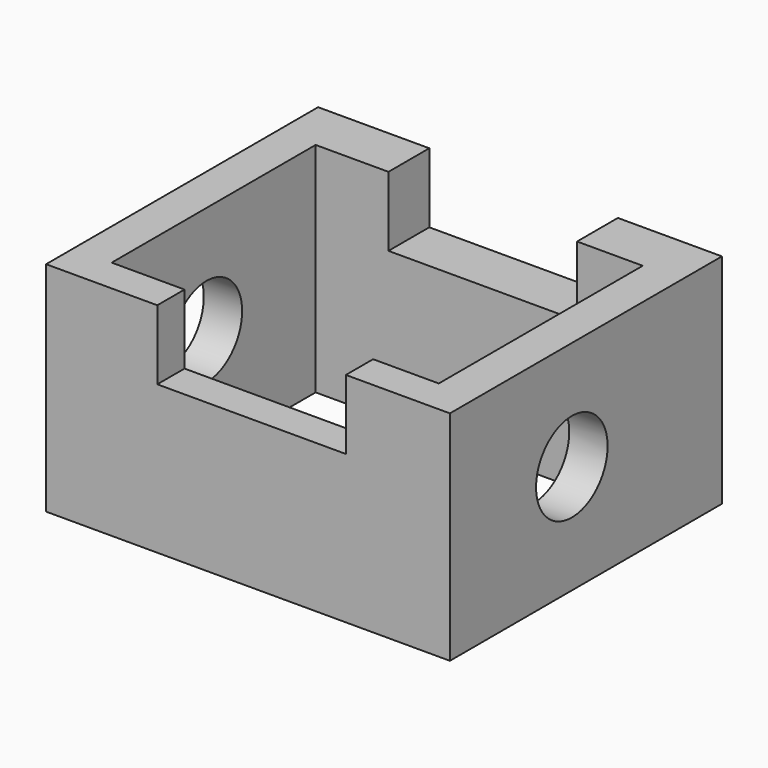
from build123d import *

# Parameters (mm, degrees)
F0_W     = 90.503112
F0_H     = 48.822132
F1_DEPTH = 76.2
F2_W     = 73.306068
F2_H     = 57.129182
F3_DEPTH = 76.2
F4_R     = 10.024428
F5_DEPTH = 101.6
F6_W     = 42.263934
F6_H     = 15.593934
F7_DEPTH = 101.6


with BuildPart() as f1:
    # F0 (on Front) → F1 (new body)
    with BuildSketch(Plane.XZ):
        Rectangle(F0_W, F0_H)
    extrude(amount=F1_DEPTH)

    # F2 (on face) → F3 (cut)
    with BuildSketch(Plane(origin=(0, 0, -24.411066), x_dir=(1, 0, 0), z_dir=(0, 0, -1))):
        with Locations((0, 40.005002)):
            Rectangle(F2_W, F2_H)
    extrude(amount=-F3_DEPTH, mode=Mode.SUBTRACT)

    # F4 (on face) → F5 (cut)
    with BuildSketch(Plane(origin=(-45.251556, 0, 0), x_dir=(0, -1, 0), z_dir=(-1, 0, 0))):
        with Locations((42.045325, 0)):
            Circle(F4_R)
    extrude(amount=-F5_DEPTH, mode=Mode.SUBTRACT)

    # F6 (on face) → F7 (cut)
    with BuildSketch(Plane.XZ.offset(76.2)):
        with Locations((0.801557, 16.614099)):
            Rectangle(F6_W, F6_H)
    extrude(amount=-F7_DEPTH, mode=Mode.SUBTRACT)


solid = f1.part
